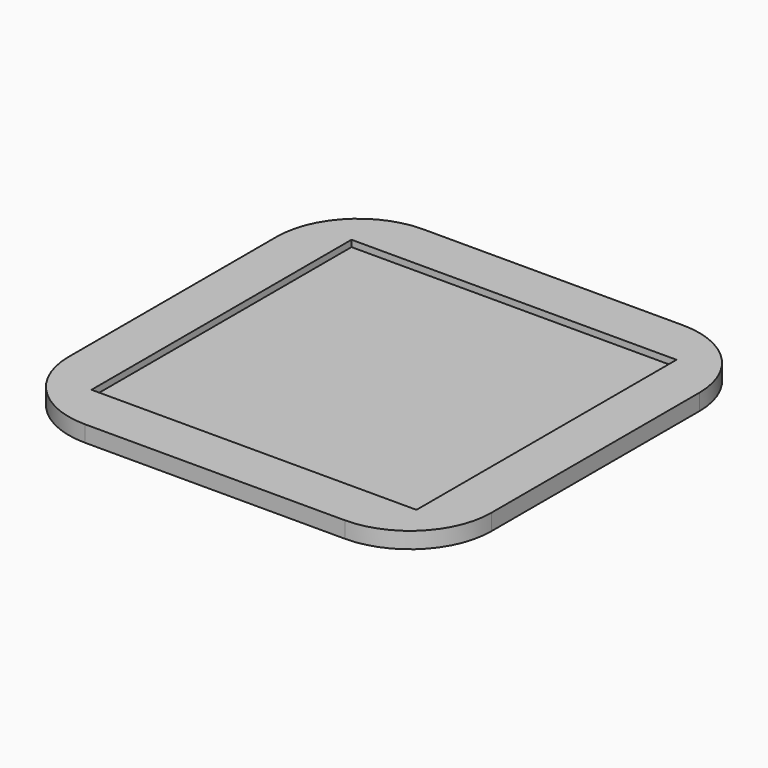
from build123d import *

# Parameters (mm, degrees)
F0_W     = 22
F0_H     = 22
F1_DEPTH = 0.6
F2_W     = 20
F2_H     = 20
F3_DEPTH = 1


with BuildPart() as f1:
    # F0 (on Top) → F1 (new body)
    with BuildSketch(Plane.XY):
        Rectangle(F0_W, F0_H)
    extrude(amount=F1_DEPTH)

    # F2 (on Top) → F3 (join)
    with BuildSketch(Plane.XY):
        with BuildLine():
            ThreePointArc((13, 8), (11.535534, 11.535534), (8, 13))
            Line((8, 13), (-8, 13))
            ThreePointArc((-8, 13), (-11.535534, 11.535534), (-13, 8))
            Line((-13, 8), (-13, -8))
            ThreePointArc((-13, -8), (-11.535534, -11.535534), (-8, -13))
            Line((-8, -13), (8, -13))
            ThreePointArc((8, -13), (11.535534, -11.535534), (13, -8))
            Line((13, -8), (13, 8))
        make_face()
        Rectangle(F2_W, F2_H, mode=Mode.SUBTRACT)
    extrude(amount=F3_DEPTH)


solid = f1.part
